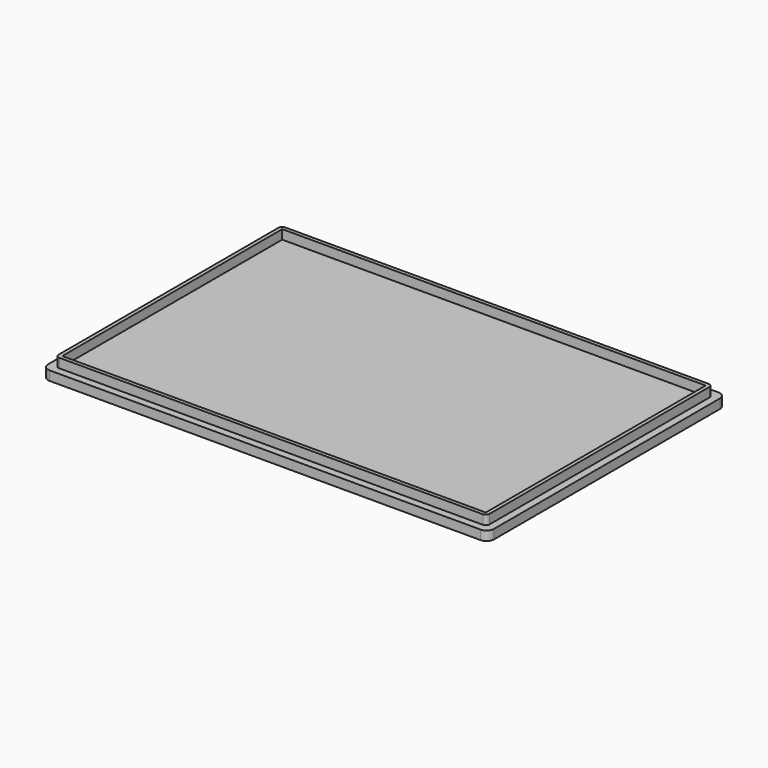
from build123d import *

# Parameters (mm, degrees)
F0_W     = 144.78
F0_H     = 93.98
F1_DEPTH = 3.175
F2_DEPTH = 6.35


with BuildPart() as f1:
    # F0 (on Top) → F1 (new body)
    with BuildSketch(Plane.XY):
        with BuildLine():
            Line((69.333904, 47.59158), (-77.986096, 47.59158))
            ThreePointArc((-77.986096, 47.59158), (-79.782147, 46.847632), (-80.526096, 45.05158))
            Line((-80.526096, 45.05158), (-80.526096, -51.46842))
            ThreePointArc((-80.526096, -51.46842), (-79.782147, -53.264471), (-77.986096, -54.00842))
            Line((-77.986096, -54.00842), (69.333904, -54.00842))
            ThreePointArc((69.333904, -54.00842), (71.129955, -53.264471), (71.873904, -51.46842))
            Line((71.873904, -51.46842), (71.873904, 45.05158))
            ThreePointArc((71.873904, 45.05158), (71.129955, 46.847632), (69.333904, 47.59158))
        make_face()
        with BuildLine():
            ThreePointArc((-77.986096, 43.78158), (-77.614121, 44.679606), (-76.716096, 45.05158))
            Line((-76.716096, 45.05158), (68.063904, 45.05158))
            ThreePointArc((68.063904, 45.05158), (68.96193, 44.679606), (69.333904, 43.78158))
            Line((69.333904, 43.78158), (69.333904, -50.19842))
            ThreePointArc((69.333904, -50.19842), (68.96193, -51.096445), (68.063904, -51.46842))
            Line((68.063904, -51.46842), (-76.716096, -51.46842))
            ThreePointArc((-76.716096, -51.46842), (-77.614121, -51.096445), (-77.986096, -50.19842))
            Line((-77.986096, -50.19842), (-77.986096, 43.78158))
        make_face(mode=Mode.SUBTRACT)
        with Locations((-4.326096, -3.20842)):
            Rectangle(F0_W, F0_H)
    extrude(amount=F1_DEPTH)


with BuildPart() as f2:
    # F0 (on Top) → F2 (new body)
    with BuildSketch(Plane.XY):
        with BuildLine():
            Line((68.063904, 45.05158), (-76.716096, 45.05158))
            ThreePointArc((-76.716096, 45.05158), (-77.614121, 44.679606), (-77.986096, 43.78158))
            Line((-77.986096, 43.78158), (-77.986096, -50.19842))
            ThreePointArc((-77.986096, -50.19842), (-77.614121, -51.096445), (-76.716096, -51.46842))
            Line((-76.716096, -51.46842), (68.063904, -51.46842))
            ThreePointArc((68.063904, -51.46842), (68.96193, -51.096445), (69.333904, -50.19842))
            Line((69.333904, -50.19842), (69.333904, 43.78158))
            ThreePointArc((69.333904, 43.78158), (68.96193, 44.679606), (68.063904, 45.05158))
        make_face()
        with Locations((-4.326096, -3.20842)):
            Rectangle(F0_W, F0_H, mode=Mode.SUBTRACT)
    extrude(amount=F2_DEPTH)


solid = Compound([f1.part, f2.part])
